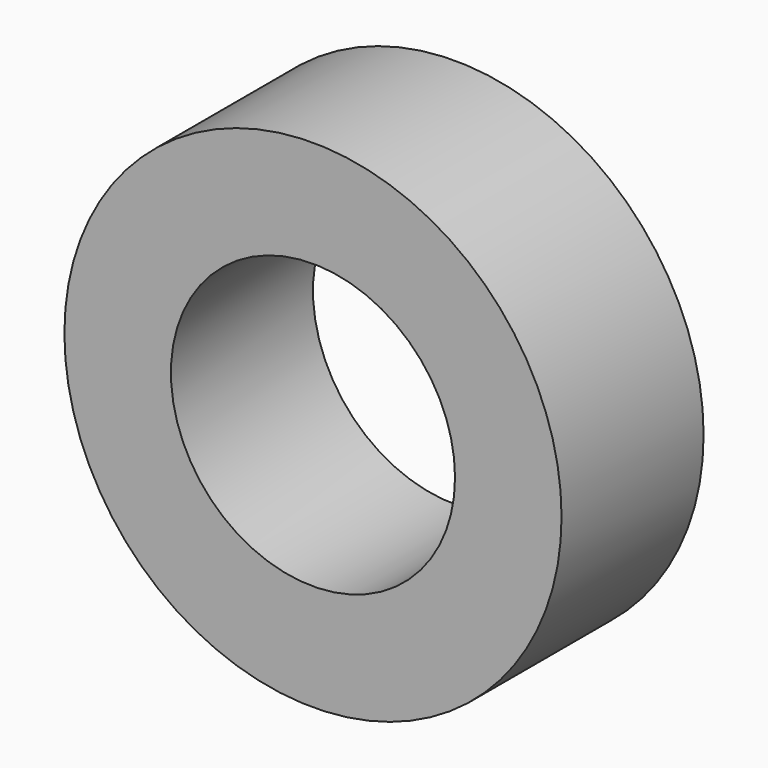
from build123d import *

# Parameters (mm, degrees)
F0_R     = 7
F0_R_2   = 4
F1_DEPTH = 5


with BuildPart() as f1:
    # F0 (on Front) → F1 (new body)
    with BuildSketch(Plane.XZ):
        with Locations((-0.283276, 0.84982)):
            Circle(F0_R)
        with Locations((-0.283276, 0.84982)):
            Circle(F0_R_2, mode=Mode.SUBTRACT)
    extrude(amount=-F1_DEPTH)


solid = f1.part
